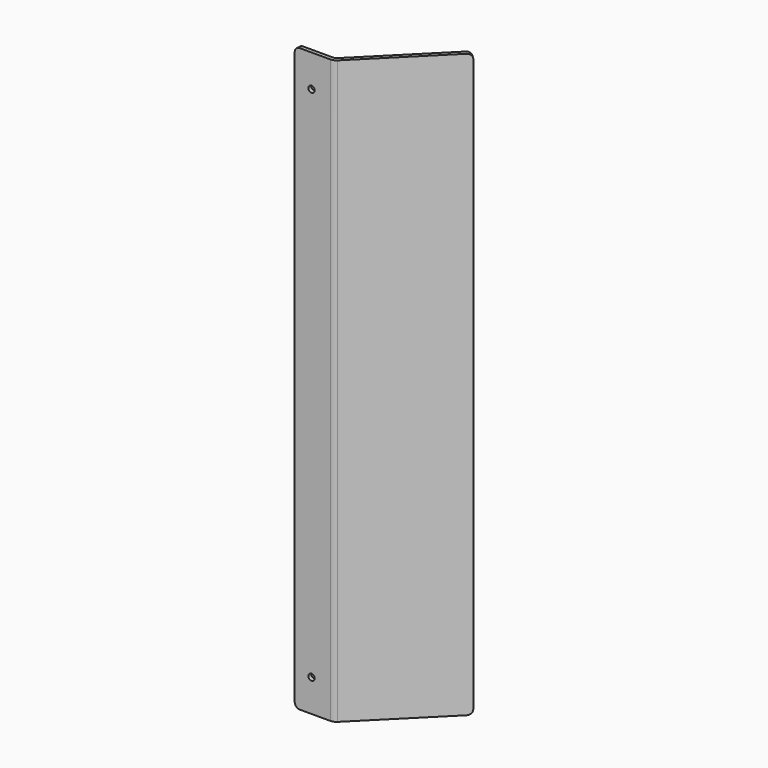
from build123d import *

# Parameters (mm, degrees)
PAD_DEPTH    = 225
FILLET_R     = 1.5
FILLET001_R  = 3
FILLET002_R  = 2
SKETCH001_R  = 1.23
POCKET_DEPTH = 5


with BuildPart() as part:
    # Sketch → Pad (new body)
    with BuildSketch(Plane.XY):
        Polygon((-33.84, -7.26), (-19.46132, -7.26), (10.09968, 22.301), (11.16034, 21.24034), (-18.84, -8.76), (-33.84, -8.76), align=None)
    extrude(amount=PAD_DEPTH)

    # Fillet
    fillet_edges = [part.edges().sort_by_distance(p)[0] for p in [
        (-19.46132, -7.26, 112.5),
    ]]
    fillet(fillet_edges, radius=FILLET_R)

    # Fillet001
    fillet001_edges = [part.edges().sort_by_distance(p)[0] for p in [
        (-18.84, -8.76, 112.5),
    ]]
    fillet(fillet001_edges, radius=FILLET001_R)

    # Fillet002
    fillet002_edges = [part.edges().sort_by_distance(p)[0] for p in [
        (10.63001, 21.77067, 225),
        (-33.84, -8.01, 225),
        (-33.84, -8.01, 0),
        (10.63001, 21.77067, 0),
    ]]
    fillet(fillet002_edges, radius=FILLET002_R)

    # Sketch001 → Pocket (cut)
    with BuildSketch(Plane.XZ.offset(8.76)):
        with Locations((-27.34, 12.5)):
            Circle(SKETCH001_R)
        with Locations((-27.34, 212.5)):
            Circle(SKETCH001_R)
    extrude(amount=-POCKET_DEPTH, mode=Mode.SUBTRACT)


solid = part.part
